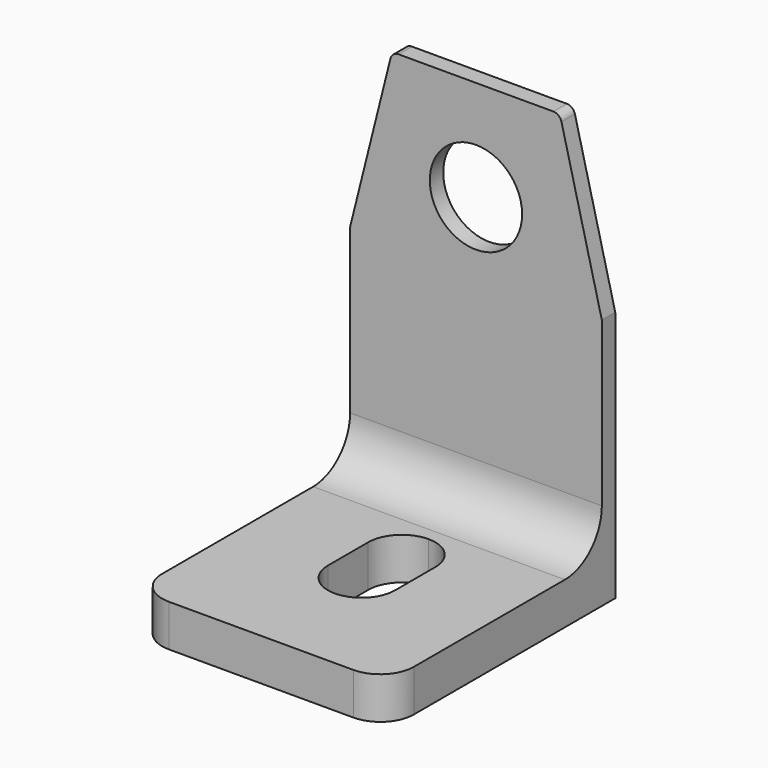
from build123d import *

# Parameters (mm, degrees)
F1_DEPTH = 15
F2_R     = 2.75
F3_R     = 2
F5_DEPTH = 2.5
F6_SIZE2 = 10
F6_SIZE  = 2.5
F7_R     = 2.75
F8_DEPTH = 3
F9_R     = 0.5


with BuildPart() as f1:
    # F0 (on Right) → F1 (new body)
    with BuildSketch(Plane.YZ):
        Polygon((-17, 0), (0, 0), (0, 25), (-1, 25), (-1, 2.5), (-17, 2.5), align=None)
    extrude(amount=F1_DEPTH)

    # F2
    f2_edges = [f1.edges().sort_by_distance(p)[0] for p in [
        (7.5, -1, 2.5),
    ]]
    fillet(f2_edges, radius=F2_R)

    # F3
    f3_edges = [f1.edges().sort_by_distance(p)[0] for p in [
        (15, -17, 1.25),
        (0, -17, 1.25),
    ]]
    fillet(f3_edges, radius=F3_R)

    # F4 (on face) → F5 (cut)
    with BuildSketch(Plane.XY.offset(2.5)):
        with BuildLine():
            Line((9.5, -9.525), (9.5, -6.525))
            ThreePointArc((9.5, -6.525), (8.9142135624, -5.1107864376), (7.5, -4.525))
            ThreePointArc((7.5, -4.525), (6.0857864376, -5.1107864376), (5.5, -6.525))
            Line((5.5, -6.525), (5.5, -9.525))
            ThreePointArc((5.5, -9.525), (6.0857864376, -10.9392135624), (7.5, -11.525))
            ThreePointArc((7.5, -11.525), (8.9142135624, -10.9392135624), (9.5, -9.525))
        make_face()
    extrude(amount=-F5_DEPTH, mode=Mode.SUBTRACT)

    # F6
    f6_edges = [f1.edges().sort_by_distance(p)[0] for p in [
        (15, -0.5, 25),
        (0, -0.5, 25),
    ]]
    f6_side = f1.faces().sort_by_distance((7.5, -0.5, 25))[0]
    chamfer(f6_edges, length=F6_SIZE, length2=F6_SIZE2, reference=f6_side)

    # F7 (on face) → F8 (cut)
    with BuildSketch(Plane.XZ.offset(1)):
        with Locations((7.5, 19)):
            Circle(F7_R)
    extrude(amount=-F8_DEPTH, mode=Mode.SUBTRACT)

    # F9
    f9_edges = [f1.edges().sort_by_distance(p)[0] for p in [
        (12.5, -0.5, 25),
        (2.5, -0.5, 25),
    ]]
    fillet(f9_edges, radius=F9_R)


solid = f1.part
